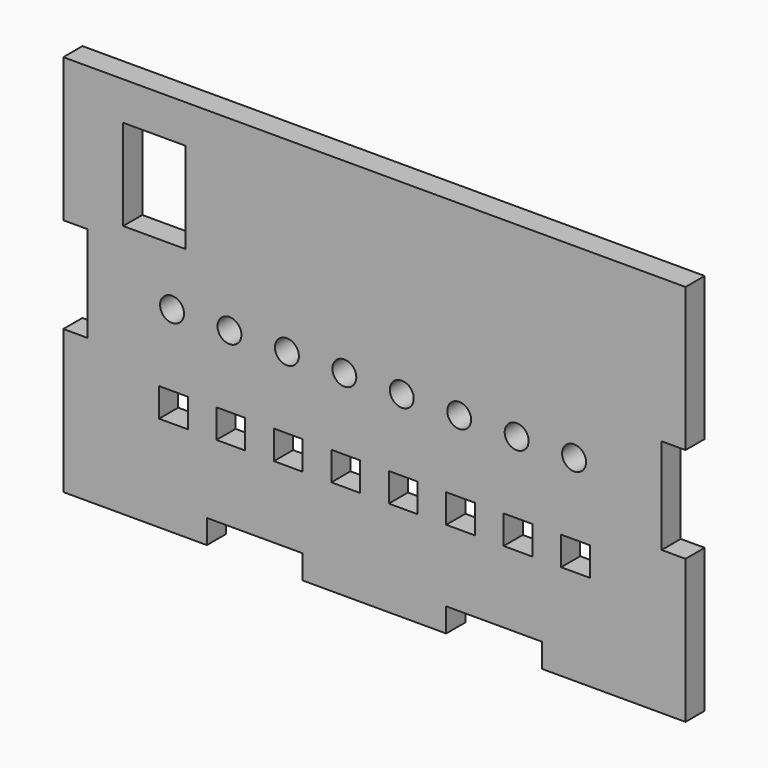
from build123d import *

# Parameters (mm, degrees)
F1_DEPTH = 5
F2_W     = 13
F2_H     = 19
F2_R     = 2.5
F2_W_2   = 6
F2_H_2   = 6
F3_DEPTH = 25


with BuildPart() as f1:
    # F0 (on Front) → F1 (new body)
    with BuildSketch(Plane.XZ):
        Polygon((0, 30), (0, 0), (30, 0), (30, 5), (50, 5), (50, 0), (80, 0), (80, 5), (100, 5), (100, 0), (130, 0), (130, 30), (125, 30), (125, 50), (130, 50), (130, 80), (0, 80), (0, 50), (5, 50), (5, 30), align=None)
    extrude(amount=F1_DEPTH)

    # F2 (on face) → F3 (cut)
    with BuildSketch(Plane.XZ.offset(5)):
        with Locations((19, 62.5)):
            Rectangle(F2_W, F2_H)
        with Locations((22.714688, 41)):
            Circle(F2_R)
        with Locations((34.714688, 41)):
            Circle(F2_R)
        with Locations((46.714688, 41)):
            Circle(F2_R)
        with Locations((58.714688, 41)):
            Circle(F2_R)
        with Locations((70.714688, 41)):
            Circle(F2_R)
        with Locations((82.714688, 41)):
            Circle(F2_R)
        with Locations((94.714688, 41)):
            Circle(F2_R)
        with Locations((106.714688, 41)):
            Circle(F2_R)
        with Locations((107, 23)):
            Rectangle(F2_W_2, F2_H_2)
        with Locations((95, 23)):
            Rectangle(F2_W_2, F2_H_2)
        with Locations((83, 23)):
            Rectangle(F2_W_2, F2_H_2)
        with Locations((71, 23)):
            Rectangle(F2_W_2, F2_H_2)
        with Locations((59, 23)):
            Rectangle(F2_W_2, F2_H_2)
        with Locations((47, 23)):
            Rectangle(F2_W_2, F2_H_2)
        with Locations((35, 23)):
            Rectangle(F2_W_2, F2_H_2)
        with Locations((23, 23)):
            Rectangle(F2_W_2, F2_H_2)
    extrude(amount=-F3_DEPTH, mode=Mode.SUBTRACT)


solid = f1.part
